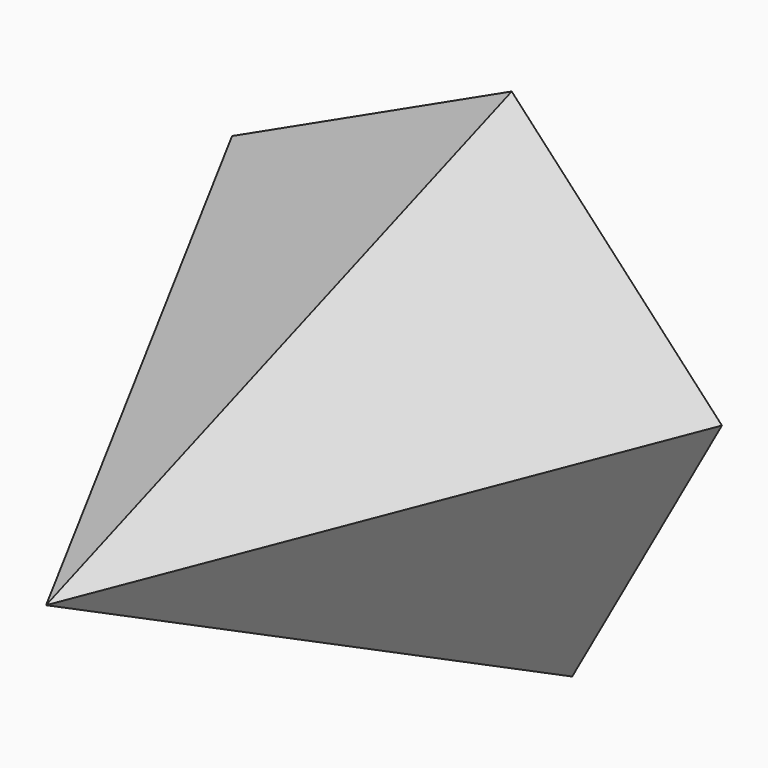
from build123d import *


with BuildPart() as f3:
    # F0 (on Front) → F3 section 0
    with BuildSketch(Plane.XZ, mode=Mode.PRIVATE) as f3_s0:
        Polygon((9.675696, 49.597772), (-44.18033, 24.528688), (-36.980641, -34.438209), (21.325037, -45.812672), (50.160239, 6.124421), align=None)
    loft([f3_s0.sketch, Vertex(0, -100, 0)])


solid = f3.part
